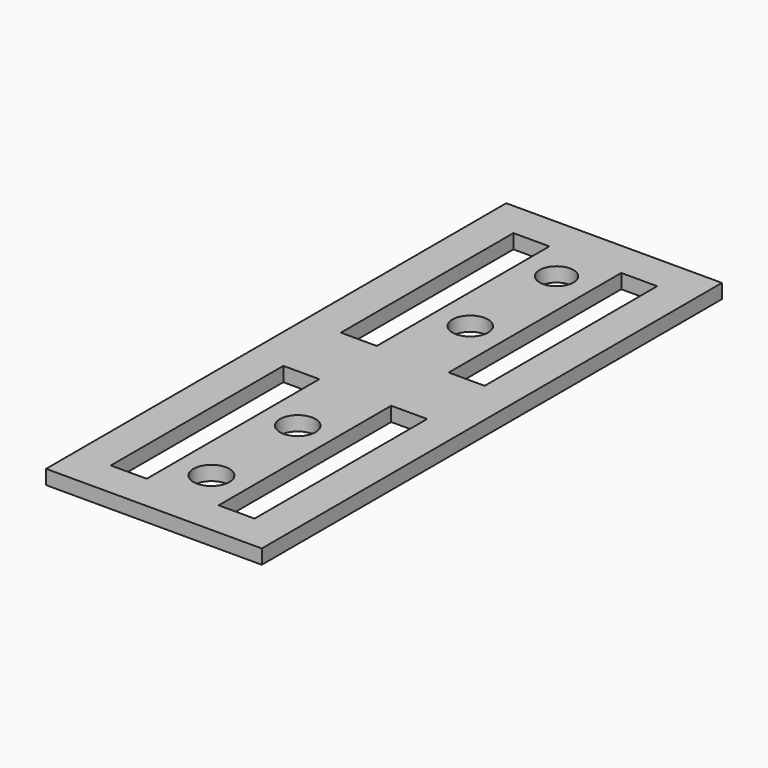
from build123d import *

# Parameters (mm, degrees)
SKETCH_W      = 30
SKETCH_H      = 80
PAD_DEPTH     = 2
SKETCH001_R   = 2.354301
SKETCH001_R_2 = 2.478142
SKETCH001_R_3 = 2.498945
SKETCH001_W   = 5
SKETCH001_H   = 30
POCKET_DEPTH  = 5


with BuildPart() as part:
    # Sketch → Pad (new body)
    with BuildSketch(Plane.XY):
        with Locations((15, 0)):
            Rectangle(SKETCH_W, SKETCH_H)
    extrude(amount=PAD_DEPTH)

    # Sketch001 (on Face5 of Pad) → Pocket (cut)
    with BuildSketch(Plane(origin=(0, 0, 0), x_dir=(1, 0, 0), z_dir=(0, 0, -1))):
        with Locations((15, -30)):
            Circle(SKETCH001_R)
        with Locations((15, -15)):
            Circle(SKETCH001_R_2)
        with Locations((15, 15)):
            Circle(SKETCH001_R_2)
        with Locations((15, 30)):
            Circle(SKETCH001_R_3)
        with Locations((7.5, 20)):
            Rectangle(SKETCH001_W, SKETCH001_H)
        with Locations((22.5, 20)):
            Rectangle(SKETCH001_W, SKETCH001_H)
        with Locations((7.5, -20)):
            Rectangle(SKETCH001_W, SKETCH001_H)
        with Locations((22.5, -20)):
            Rectangle(SKETCH001_W, SKETCH001_H)
    extrude(amount=-POCKET_DEPTH, mode=Mode.SUBTRACT)


solid = part.part
